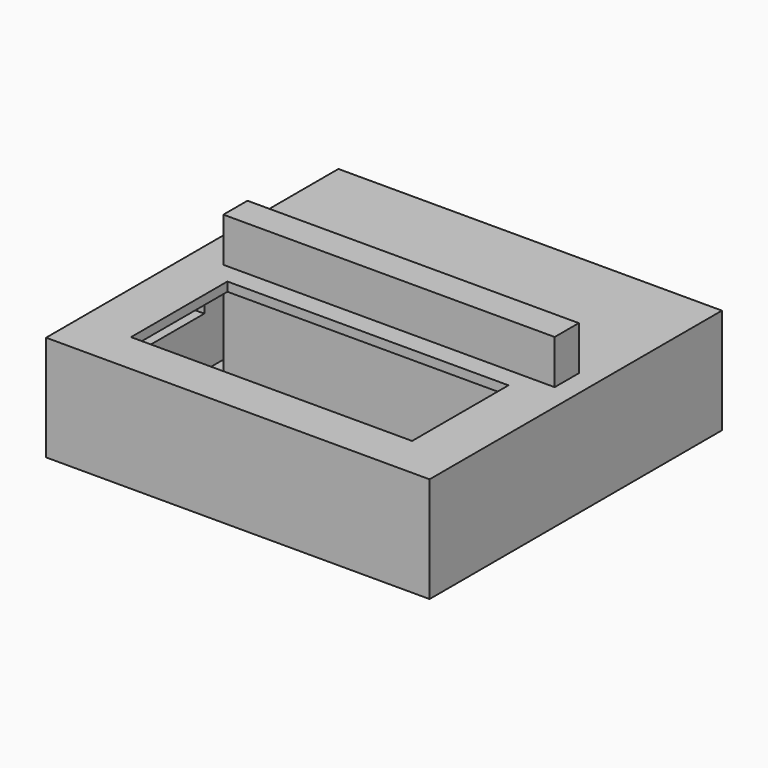
from build123d import *

# Parameters (mm, degrees)
BOX_W          = 382
BOX_H          = 364
BOX_DEPTH      = 105
BOX001_W       = 360
BOX001_H       = 350
BOX001_DEPTH   = 90
BOX003_W       = 280
BOX003_H       = 120
BOX003_DEPTH   = 50
BOX004_W       = 140
BOX004_H       = 100
BOX004_DEPTH   = 90
BOX005_W       = 30
BOX005_H       = 160
BOX005_DEPTH   = 40
PRISM_DEPTH    = 10
PRISM001_DEPTH = 10
PRISM002_DEPTH = 10
PRISM003_DEPTH = 10
PRISM004_DEPTH = 10
PRISM005_DEPTH = 10
PRISM006_DEPTH = 10
PRISM007_DEPTH = 10
PRISM008_DEPTH = 10
BOX002_W       = 330
BOX002_H       = 30
BOX002_DEPTH   = 149


with BuildPart() as body:
    # Box → Box (join)
    with BuildSketch(Plane(origin=(-191, -182, 0), x_dir=(1, 0, 0), z_dir=(0, 0, 1))):
        with Locations((191, 182)):
            Rectangle(BOX_W, BOX_H)
    extrude(amount=BOX_DEPTH)

    # Box001 → Box001 (cut)
    with BuildSketch(Plane(origin=(-179, -175, 6), x_dir=(1, 0, 0), z_dir=(0, 0, 1))):
        with Locations((180, 175)):
            Rectangle(BOX001_W, BOX001_H)
    extrude(amount=BOX001_DEPTH, mode=Mode.SUBTRACT)

    # Box003 → Box003 (cut)
    with BuildSketch(Plane(origin=(-140, -140, 90), x_dir=(1, 0, 0), z_dir=(0, 0, 1))):
        with Locations((140, 60)):
            Rectangle(BOX003_W, BOX003_H)
    extrude(amount=BOX003_DEPTH, mode=Mode.SUBTRACT)

    # Box004 → Box004 (join)
    with BuildSketch(Plane(origin=(20, 56, 6), x_dir=(1, 0, 0), z_dir=(0, 0, 1))):
        with Locations((70, 50)):
            Rectangle(BOX004_W, BOX004_H)
    extrude(amount=BOX004_DEPTH)

    # Box005 → Box005 (cut)
    with BuildSketch(Plane(origin=(-193, -160, 56), x_dir=(1, 0, 0), z_dir=(0, 0, 1))):
        with Locations((15, 80)):
            Rectangle(BOX005_W, BOX005_H)
    extrude(amount=BOX005_DEPTH, mode=Mode.SUBTRACT)

    # Prism → Prism (cut)
    with BuildSketch(Plane(origin=(100, 100, 0), x_dir=(1, 0, 0), z_dir=(0, 0, 1))):
        Polygon((2, 0), (1, 1.732051), (-1, 1.732051), (-2, 0), (-1, -1.732051), (1, -1.732051), align=None)
    extrude(amount=PRISM_DEPTH, mode=Mode.SUBTRACT)

    # Prism001 → Prism001 (cut)
    with BuildSketch(Plane(origin=(110, 100, 0), x_dir=(1, 0, 0), z_dir=(0, 0, 1))):
        Polygon((2, 0), (1, 1.732051), (-1, 1.732051), (-2, 0), (-1, -1.732051), (1, -1.732051), align=None)
    extrude(amount=PRISM001_DEPTH, mode=Mode.SUBTRACT)

    # Prism002 → Prism002 (cut)
    with BuildSketch(Plane(origin=(120, 100, 0), x_dir=(1, 0, 0), z_dir=(0, 0, 1))):
        Polygon((2, 0), (1, 1.732051), (-1, 1.732051), (-2, 0), (-1, -1.732051), (1, -1.732051), align=None)
    extrude(amount=PRISM002_DEPTH, mode=Mode.SUBTRACT)

    # Prism003 → Prism003 (cut)
    with BuildSketch(Plane(origin=(100, 80, 0), x_dir=(1, 0, 0), z_dir=(0, 0, 1))):
        Polygon((2, 0), (1, 1.732051), (-1, 1.732051), (-2, 0), (-1, -1.732051), (1, -1.732051), align=None)
    extrude(amount=PRISM003_DEPTH, mode=Mode.SUBTRACT)

    # Prism004 → Prism004 (cut)
    with BuildSketch(Plane(origin=(110, 80, 0), x_dir=(1, 0, 0), z_dir=(0, 0, 1))):
        Polygon((2, 0), (1, 1.732051), (-1, 1.732051), (-2, 0), (-1, -1.732051), (1, -1.732051), align=None)
    extrude(amount=PRISM004_DEPTH, mode=Mode.SUBTRACT)

    # Prism005 → Prism005 (cut)
    with BuildSketch(Plane(origin=(120, 80, 0), x_dir=(1, 0, 0), z_dir=(0, 0, 1))):
        Polygon((2, 0), (1, 1.732051), (-1, 1.732051), (-2, 0), (-1, -1.732051), (1, -1.732051), align=None)
    extrude(amount=PRISM005_DEPTH, mode=Mode.SUBTRACT)

    # Prism006 → Prism006 (cut)
    with BuildSketch(Plane(origin=(100, 60, 0), x_dir=(1, 0, 0), z_dir=(0, 0, 1))):
        Polygon((2, 0), (1, 1.732051), (-1, 1.732051), (-2, 0), (-1, -1.732051), (1, -1.732051), align=None)
    extrude(amount=PRISM006_DEPTH, mode=Mode.SUBTRACT)

    # Prism007 → Prism007 (cut)
    with BuildSketch(Plane(origin=(110, 60, 0), x_dir=(1, 0, 0), z_dir=(0, 0, 1))):
        Polygon((2, 0), (1, 1.732051), (-1, 1.732051), (-2, 0), (-1, -1.732051), (1, -1.732051), align=None)
    extrude(amount=PRISM007_DEPTH, mode=Mode.SUBTRACT)

    # Prism008 → Prism008 (cut)
    with BuildSketch(Plane(origin=(120, 60, 0), x_dir=(1, 0, 0), z_dir=(0, 0, 1))):
        Polygon((2, 0), (1, 1.732051), (-1, 1.732051), (-2, 0), (-1, -1.732051), (1, -1.732051), align=None)
    extrude(amount=PRISM008_DEPTH, mode=Mode.SUBTRACT)


with BuildPart() as max_card:
    # Box002 → Box002 (join)
    with BuildSketch(Plane(origin=(-160, 0, 0), x_dir=(1, 0, 0), z_dir=(0, 0, 1))):
        with Locations((165, 15)):
            Rectangle(BOX002_W, BOX002_H)
    extrude(amount=BOX002_DEPTH)


solid = Compound([body.part, max_card.part])
